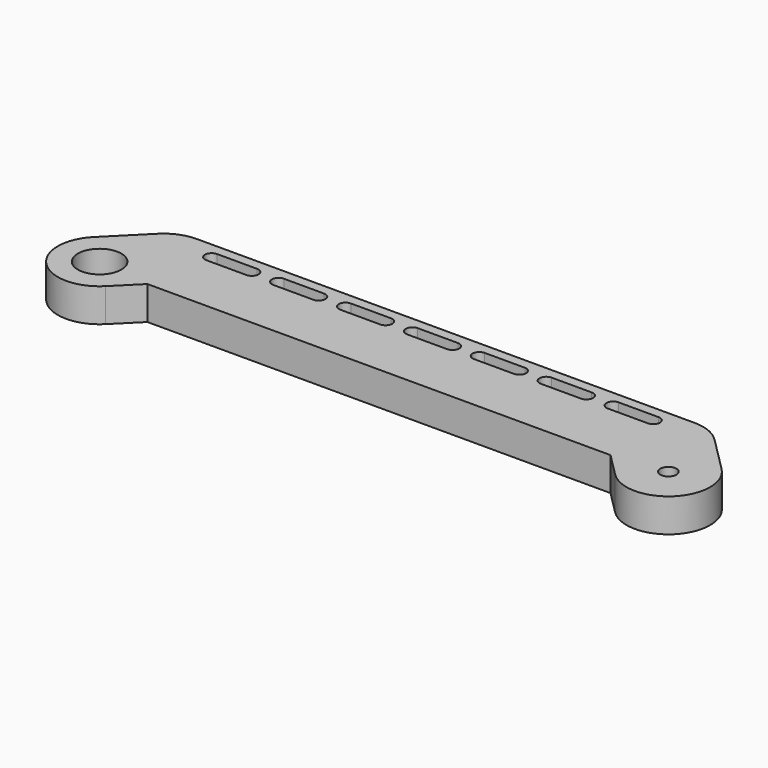
from build123d import *

# Parameters (mm, degrees)
SKETCH_R               = 6.5
SKETCH_R_2             = 2.425
PAD_DEPTH              = 10
POCKET_DEPTH           = 15
LINEARPATTERN_COUNT    = 4
LINEARPATTERN_PITCH    = 20
LINEARPATTERN001_COUNT = 4
LINEARPATTERN001_PITCH = 20


with BuildPart() as part:
    # Sketch → Pad (new body)
    with BuildSketch(Plane.XY):
        with BuildLine():
            ThreePointArc((-8.838835, 8.838835), (-8.838835, -8.838835), (8.838835, -8.838835))
            Line((15.784271, -1.893398), (8.838835, -8.838835))
            Line((15.784271, -1.893398), (154.215729, -1.893398))
            Line((154.215729, -1.893398), (161.161165, -8.838835))
            ThreePointArc((161.161165, -8.838835), (178.838835, -8.838835), (178.838835, 8.838835))
            Line((168.232233, 19.445436), (178.838835, 8.838835))
            ThreePointArc((168.232233, 19.445436), (164.176941, 22.155096), (159.393398, 23.106602))
            Line((10.606602, 23.106602), (159.393398, 23.106602))
            ThreePointArc((10.606602, 23.106602), (5.823059, 22.155096), (1.767767, 19.445436))
            Line((-8.838835, 8.838835), (1.767767, 19.445436))
        make_face()
        Circle(SKETCH_R, mode=Mode.SUBTRACT)
        with Locations((170, 0)):
            Circle(SKETCH_R_2, mode=Mode.SUBTRACT)
    extrude(amount=PAD_DEPTH)

    # Sketch001 (on Face14 of Pad) → Pocket (cut)
    with BuildSketch(Plane.XY.offset(10)):
        with BuildLine():
            ThreePointArc((79, 20.106602), (77, 18.106602), (79, 16.106602))
            Line((79, 16.106602), (91, 16.106602))
            ThreePointArc((91, 16.106602), (93, 18.106602), (91, 20.106602))
            Line((91, 20.106602), (79, 20.106602))
        make_face()
    pocket = extrude(amount=-POCKET_DEPTH, mode=Mode.SUBTRACT)

    # LinearPattern: Pocket ×4
    with Locations(*[(i * LINEARPATTERN_PITCH, 0, 0) for i in range(1, LINEARPATTERN_COUNT)]):
        add(pocket, mode=Mode.SUBTRACT)

    # LinearPattern001: Pocket ×4
    with Locations(*[(-i * LINEARPATTERN001_PITCH, 0, 0) for i in range(1, LINEARPATTERN001_COUNT)]):
        add(pocket, mode=Mode.SUBTRACT)


solid = part.part
